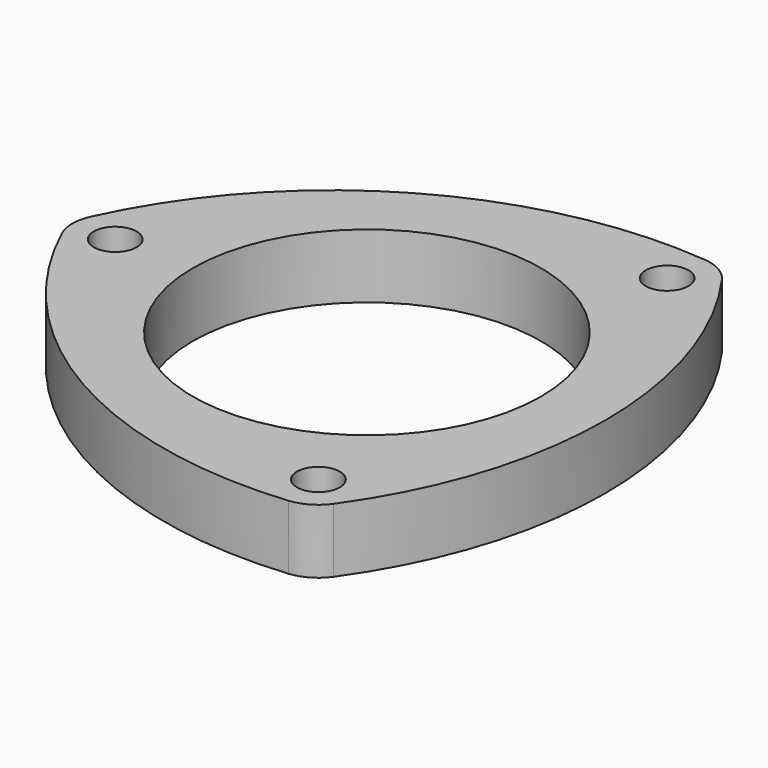
from build123d import *

# Parameters (mm, degrees)
F0_R     = 4
F0_R_2   = 32.5
F1_DEPTH = 12


with BuildPart() as f1:
    # F0 (on Top) → F1 (new body)
    with BuildSketch(Plane.XY):
        with BuildLine():
            ThreePointArc((30.018965, 45.340337), (27.5, 47.631397), (24.256401, 48.667355))
            ThreePointArc((24.256401, 48.667355), (-22.25, 38.53813), (-54.275366, 3.327017))
            ThreePointArc((-54.275366, 3.327017), (-55, 0), (-54.275366, -3.327017))
            ThreePointArc((-54.275366, -3.327017), (-22.25, -38.53813), (24.256401, -48.667355))
            ThreePointArc((24.256401, -48.667355), (27.5, -47.631397), (30.018965, -45.340337))
            ThreePointArc((30.018965, -45.340337), (44.5, 0), (30.018965, 45.340337))
        make_face()
        with Locations((-47, 0)):
            Circle(F0_R, mode=Mode.SUBTRACT)
        with Locations((23.5, -40.703194)):
            Circle(F0_R, mode=Mode.SUBTRACT)
        Circle(F0_R_2, mode=Mode.SUBTRACT)
        with Locations((23.5, 40.703194)):
            Circle(F0_R, mode=Mode.SUBTRACT)
    extrude(amount=F1_DEPTH)


solid = f1.part
